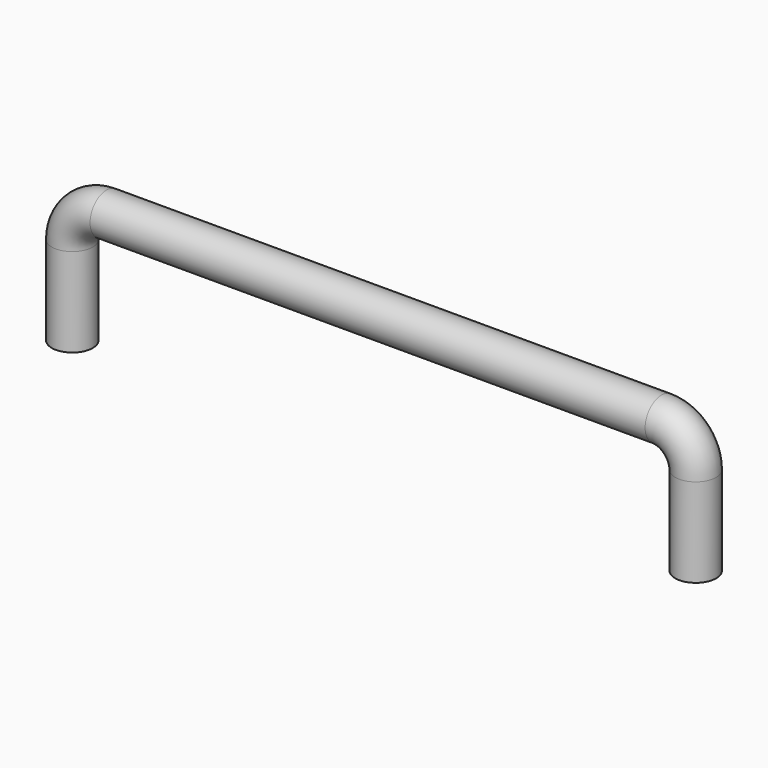
from build123d import *

# Parameters (mm, degrees)
F2_R = 1.5


with BuildPart() as f3:
    # F3: sweep along a path in F0
    with BuildLine(Plane.XZ) as f3_path:
        Line((42.6, -7.5), (42.6, -1))
        ThreePointArc((42.6, -1), (42.3071067812, -0.2928932188), (41.6, 0))
        Line((41.6, 0), (1, 0))
        ThreePointArc((1, 0), (0.2928932188, -0.2928932188), (0, -1))
        Line((0, -1), (0, -7.5))
    # F2 (on plane+point) → F3 (sweep)
    with BuildSketch(Plane.XY.offset(-7.5)):
        with Locations((44.1, 0)):
            Circle(F2_R)
    sweep(path=f3_path.line)


solid = f3.part
